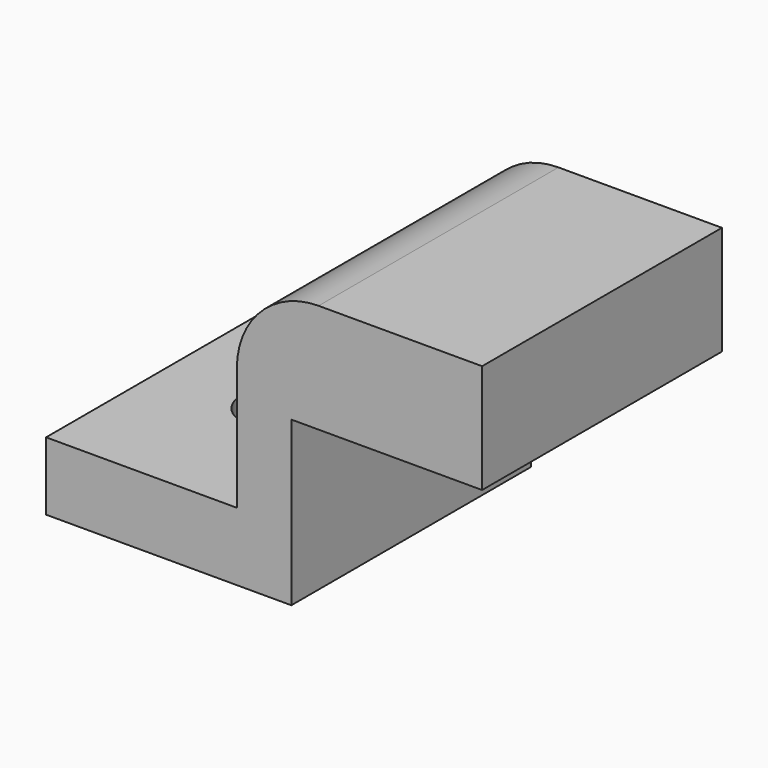
from build123d import *

# Parameters (mm, degrees)
F1_DEPTH = 27.94
F3_DEPTH = 7.62
F4_R     = 7.62
F5_R     = 3.175
F6_DEPTH = 25.4


with BuildPart() as f1:
    # F0 (on Front) → F1 (new body)
    with BuildSketch(Plane.XZ):
        Polygon((-22.86, 0), (0, 0), (0, 15.24), (17.78, 15.24), (17.78, 25.4), (-5.08, 25.4), (-5.08, 6.35), (-22.86, 6.35), align=None)
    extrude(amount=F1_DEPTH)

    # F2 (on face) → F3 (cut)
    with BuildSketch(Plane(origin=(0, 0, 15.24), x_dir=(1, 0, 0), z_dir=(0, 0, -1))):
        with BuildLine():
            ThreePointArc((11.43, 9.906), (14.303682, 11.096318), (15.494, 13.97))
            ThreePointArc((15.494, 13.97), (14.303682, 16.843682), (11.43, 18.034))
            Line((11.43, 18.034), (11.43, 9.906))
        make_face()
        with BuildLine():
            Line((11.43, 9.906), (11.43, 18.034))
            ThreePointArc((11.43, 18.034), (7.366, 13.97), (11.43, 9.906))
        make_face()
    extrude(amount=-F3_DEPTH, mode=Mode.SUBTRACT)

    # F4
    f4_edges = [f1.edges().sort_by_distance(p)[0] for p in [
        (-5.08, -13.97, 25.4),
    ]]
    fillet(f4_edges, radius=F4_R)

    # F5 (on face) → F6 (cut)
    with BuildSketch(Plane(origin=(0, 0, 0), x_dir=(1, 0, 0), z_dir=(0, 0, -1))):
        with Locations((-12.7, 13.97)):
            Circle(F5_R)
    extrude(amount=-F6_DEPTH, mode=Mode.SUBTRACT)


solid = f1.part
